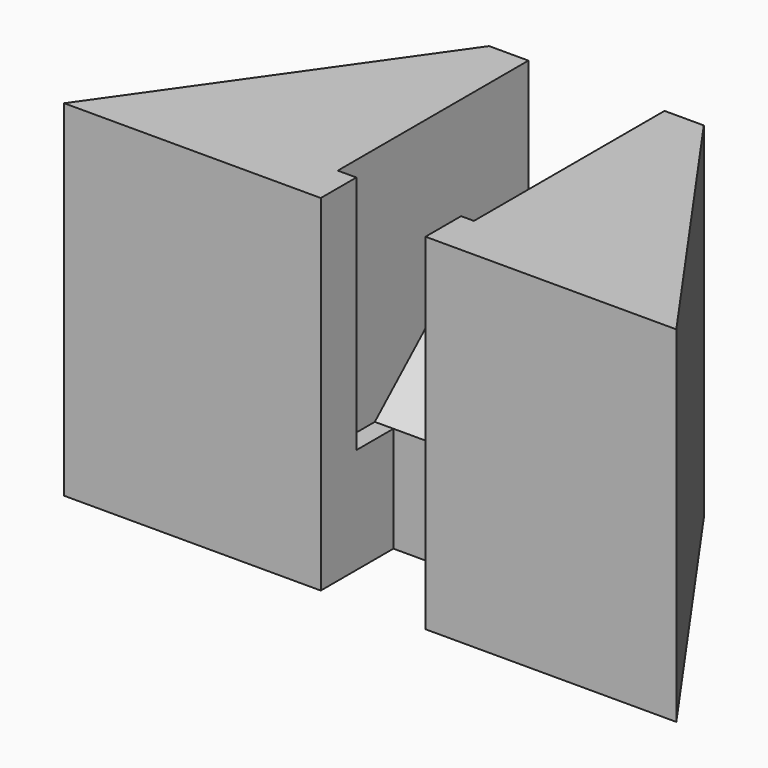
from build123d import *

# Parameters (mm, degrees)
F1_DEPTH  = 33
F2_W      = 13
F2_H      = 13
F3_DEPTH  = 22.75
F4_W      = 10
F4_H      = 8.67
F5_DEPTH  = 33
F6_W      = 13
F6_H      = 3
F7_DEPTH  = 5
F9_DEPTH  = 6.5
F10_DEPTH = 6.5


with BuildPart() as f1:
    # F0 (on Top) → F1 (new body)
    with BuildSketch(Plane.XY):
        Polygon((-10.25, 13.49995), (-29.225, -13.498744), (29.225, -13.498744), (10.25, 13.49995), align=None)
    extrude(amount=-F1_DEPTH)

    # F2 (on face) → F3 (cut)
    with BuildSketch(Plane(origin=(0, 13.49995, 0), x_dir=(-1, 0, 0), z_dir=(0, 1, 0))):
        with Locations((0, -6.5)):
            Rectangle(F2_W, F2_H)
    extrude(amount=-F3_DEPTH, mode=Mode.SUBTRACT)

    # F4 (on face) → F5 (cut)
    with BuildSketch(Plane.XY):
        with Locations((0.275, -9.163744)):
            Rectangle(F4_W, F4_H)
    extrude(amount=-F5_DEPTH, mode=Mode.SUBTRACT)

    # F6 (on face) → F7 (cut)
    with BuildSketch(Plane.XY.offset(-13)):
        with Locations((0, 9.99995)):
            Rectangle(F6_W, F6_H)
    extrude(amount=-F7_DEPTH, mode=Mode.SUBTRACT)

    # F8 (on Right) → F9 (cut)
    with BuildSketch(Plane.YZ):
        Polygon((-4.83005, -22.918396), (8.49995, -11), (-9.25005, -11), (-9.25005, -22.918396), align=None)
    extrude(amount=-F9_DEPTH, mode=Mode.SUBTRACT)

    # F8 (on Right) → F10 (cut)
    with BuildSketch(Plane.YZ):
        Polygon((-4.83005, -22.918396), (8.49995, -11), (-9.25005, -11), (-9.25005, -22.918396), align=None)
    extrude(amount=F10_DEPTH, mode=Mode.SUBTRACT)


solid = f1.part
